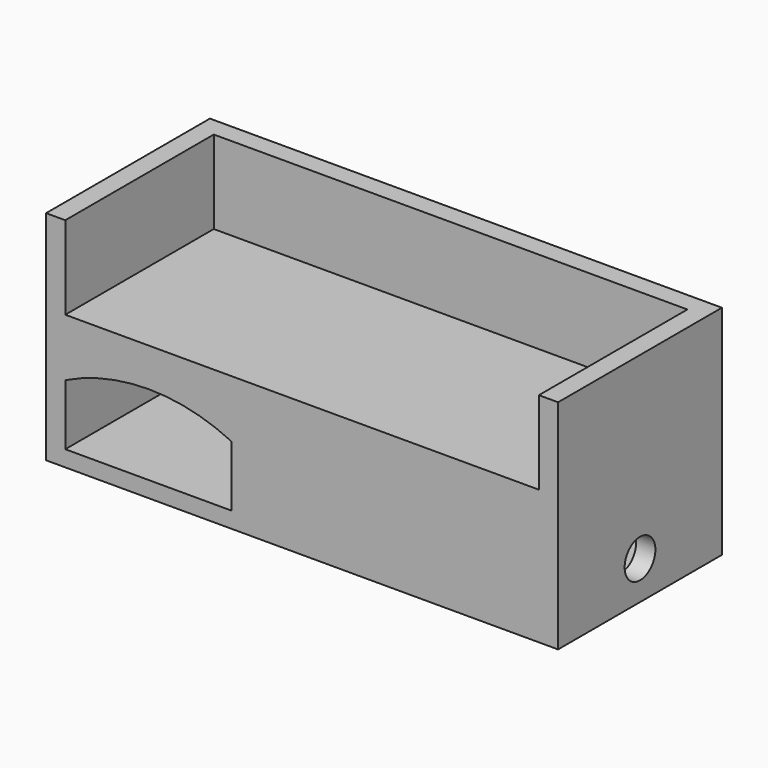
from build123d import *

# Parameters (mm, degrees)
F0_W      = 2032
F0_H      = 812.8
F1_DEPTH  = 914.4
F4_DEPTH  = 1955.8
F3_W      = 1879.6
F3_H      = 330.2
F5_DEPTH  = 736.6
F6_W      = 660.4
F6_H      = 241.3
F7_DEPTH  = 736.6
F8_W      = 76.2
F8_H      = 660.4
F10_R     = 76.2
F11_DEPTH = 76.2
F12_DEPTH = 50.8


with BuildPart() as f1:
    # F0 (on Top) → F1 (new body)
    with BuildSketch(Plane.XY):
        Rectangle(F0_W, F0_H)
    extrude(amount=F1_DEPTH)

    # F2 (on face) → F4 (cut)
    with BuildSketch(Plane.YZ.offset(1016)):
        with BuildLine():
            Line((330.2, 63.5), (330.2, 304.8))
            ThreePointArc((330.2, 304.8), (0, 381), (-330.2, 304.8))
            Line((-330.2, 304.8), (-330.2, 63.5))
            Line((-330.2, 63.5), (330.2, 63.5))
        make_face()
    extrude(amount=-F4_DEPTH, mode=Mode.SUBTRACT)

    # F3 (on face) → F5 (cut)
    with BuildSketch(Plane.XZ.offset(406.4)):
        with Locations((0, 698.5)):
            Rectangle(F3_W, F3_H)
    extrude(amount=-F5_DEPTH, mode=Mode.SUBTRACT)

    # F6 (on face) → F7 (cut)
    with BuildSketch(Plane.XZ.offset(406.4)):
        with Locations((-609.6, 184.15)):
            Rectangle(F6_W, F6_H)
        with BuildLine():
            ThreePointArc((-279.4, 304.8), (-609.6, 381), (-939.8, 304.8))
            Line((-939.8, 304.8), (-279.4, 304.8))
        make_face()
    extrude(amount=-F7_DEPTH, mode=Mode.SUBTRACT)

    # F8 (on face) → F9 (join, up to the next surface of F1)
    with BuildSketch(Plane.XY.offset(63.5)):
        with Locations((977.9, 0)):
            Rectangle(F8_W, F8_H)
    extrude(until=Until.NEXT)

    # F10 (on face) → F11 (cut, through all)
    with BuildSketch(Plane.YZ.offset(1016)):
        with Locations((0, 152.4)):
            Circle(F10_R)
    extrude(amount=-F11_DEPTH, mode=Mode.SUBTRACT)

    # F12 (cut): a face of the model
    f12_faces = [f1.faces().sort_by_distance(p)[0] for p in [
        (0, 0, 914.4),
    ]]
    extrude(f12_faces, amount=-F12_DEPTH, mode=Mode.SUBTRACT)


solid = f1.part
